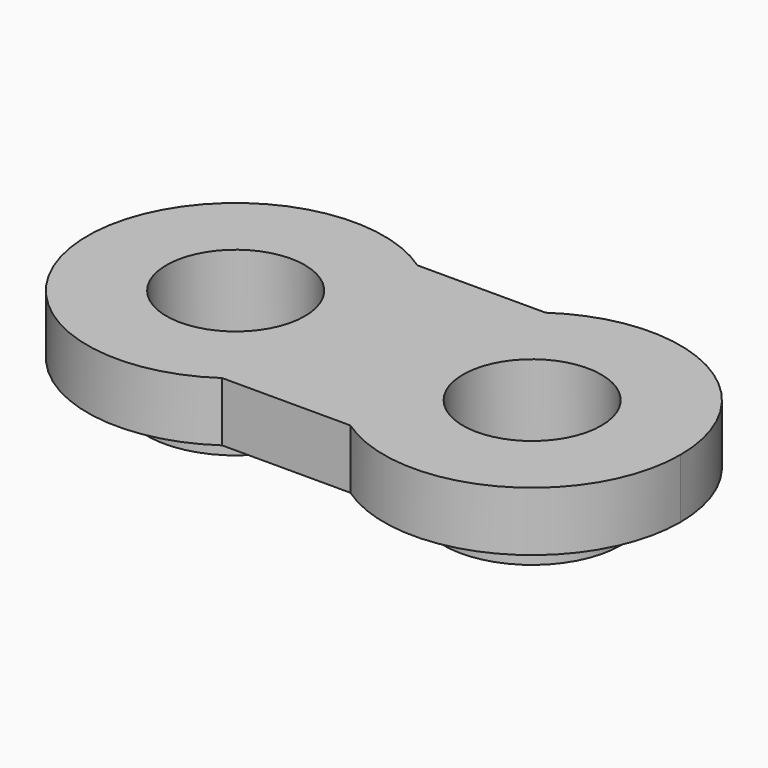
from build123d import *

# Parameters (mm, degrees)
F0_R     = 4.5
F1_DEPTH = 3
F0_R_2   = 3.5
F2_DEPTH = 5


with BuildPart() as f1:
    # F0 (on Top) → F1 (new body)
    with BuildSketch(Plane.XY):
        with BuildLine():
            ThreePointArc((0, 0), (-0.860465, 3.488061), (-3.244419, 6.175762))
            ThreePointArc((-3.244419, 6.175762), (-15, 0), (-3.244419, -6.175762))
            ThreePointArc((-3.244419, -6.175762), (-0.860465, -3.488061), (0, 0))
        make_face()
        with Locations((-7.5, 0)):
            Circle(F0_R, mode=Mode.SUBTRACT)
        with BuildLine():
            ThreePointArc((15, 0), (10.988061, 6.639535), (3.244419, 6.175762))
            ThreePointArc((3.244419, 6.175762), (0.860465, 3.488061), (0, 0))
            ThreePointArc((0, 0), (0.860465, -3.488061), (3.244419, -6.175762))
            ThreePointArc((3.244419, -6.175762), (10.988061, -6.639535), (15, 0))
        make_face()
        with Locations((7.5, 0)):
            Circle(F0_R, mode=Mode.SUBTRACT)
        with BuildLine():
            Line((3.244419, 6.175762), (-3.244419, 6.175762))
            ThreePointArc((-3.244419, 6.175762), (-0.860465, 3.488061), (0, 0))
            ThreePointArc((0, 0), (0.860465, 3.488061), (3.244419, 6.175762))
        make_face()
        with BuildLine():
            ThreePointArc((3.244419, -6.175762), (0.860465, -3.488061), (0, 0))
            ThreePointArc((0, 0), (-0.860465, -3.488061), (-3.244419, -6.175762))
            Line((-3.244419, -6.175762), (3.244419, -6.175762))
        make_face()
    extrude(amount=-F1_DEPTH)

    # F0 (on Top) → F2 (join)
    with BuildSketch(Plane.XY):
        with Locations((7.5, 0)):
            Circle(F0_R)
        with Locations((7.5, 0)):
            Circle(F0_R_2, mode=Mode.SUBTRACT)
        with Locations((-7.5, 0)):
            Circle(F0_R)
        with Locations((-7.5, 0)):
            Circle(F0_R_2, mode=Mode.SUBTRACT)
    extrude(amount=-F2_DEPTH)


solid = f1.part
